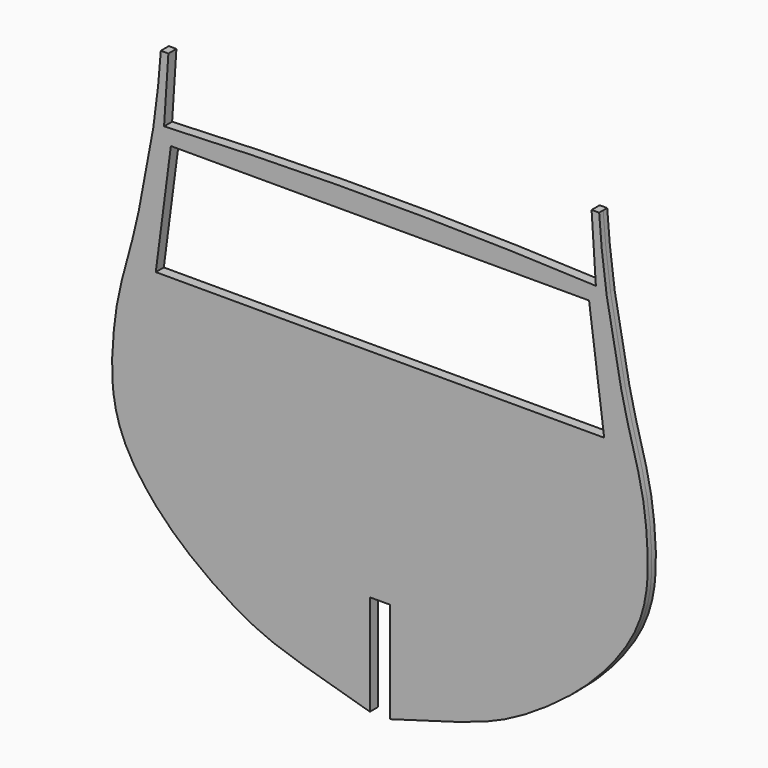
from build123d import *

# Parameters (mm, degrees)
F1_DEPTH = 1.5875


with BuildPart() as f1:
    # F0 (on Front) → F1 (new body, symmetric)
    with BuildSketch(Plane.XZ):
        with BuildLine():
            Line((3.175, -68.2625), (3.175, -100.0125))
            add(Edge.make_bspline(
                [(3.175, -100.0125), (25.4, -93.6625), (38.4372263933, -90.2223504475), (60.7730419359, -75.1358418001), (73.2036727094, -62.5429653931), (81.6851629227, -49.6552562829), (84.6792278791, -36.5913534703), (84.3093636887, -23.7873639448), (82.8968397308, -11.0358049987), (79.336109421, 1.6063935914), (76.0025941741, 14.1554405931), (73.8948680964, 27.3014374499), (71.3390715502, 38.5174269709), (69.4865276114, 55.7740404234), (69.8507028524, 52.3790657716), (69.05625, 61.9125)],
                knots=[0, 0, 0, 0, 0.1240554666, 0.2177224959, 0.3006833864, 0.376439627, 0.4472665119, 0.5170280274, 0.5870604664, 0.6578873513, 0.7287142362, 0.7990809685, 0.8694477008, 0.9394801399, 1, 1, 1, 1], degree=3))
            Line((69.05625, 61.9125), (66.675, 61.9125))
            Line((66.675, 61.9125), (68.0279204986, 41.275))
            ThreePointArc((68.0279204986, 41.275), (0, 42.8625), (-68.0279204986, 41.275))
            Line((-68.0279204986, 41.275), (-66.675, 61.9125))
            Line((-66.675, 61.9125), (-69.05625, 61.9125))
            add(Edge.make_bspline(
                [(-3.175, -100.0125), (-25.4, -93.6625), (-38.4372263933, -90.2223504475), (-60.7730419359, -75.1358418001), (-73.2036727094, -62.5429653931), (-81.6851629227, -49.6552562829), (-84.6792278791, -36.5913534703), (-84.3093636887, -23.7873639448), (-82.8968397308, -11.0358049987), (-79.336109421, 1.6063935914), (-76.0025941741, 14.1554405931), (-73.8948680964, 27.3014374499), (-71.3390715502, 38.5174269709), (-69.4865276114, 55.7740404234), (-69.8507028524, 52.3790657716), (-69.05625, 61.9125)],
                knots=[0, 0, 0, 0, 0.1240554666, 0.2177224959, 0.3006833864, 0.376439627, 0.4472665119, 0.5170280274, 0.5870604664, 0.6578873513, 0.7287142362, 0.7990809685, 0.8694477008, 0.9394801399, 1, 1, 1, 1], degree=3))
            Line((-3.175, -100.0125), (-3.175, -68.2625))
            Line((-3.175, -68.2625), (0, -68.2625))
            Line((0, -68.2625), (3.175, -68.2625))
        make_face()
        Polygon((70.64375, 0), (0, 0), (-70.64375, 0), (-65.88125, 36.5125), (0, 36.5125), (65.88125, 36.5125), align=None, mode=Mode.SUBTRACT)
    extrude(amount=F1_DEPTH, both=True)


solid = f1.part
